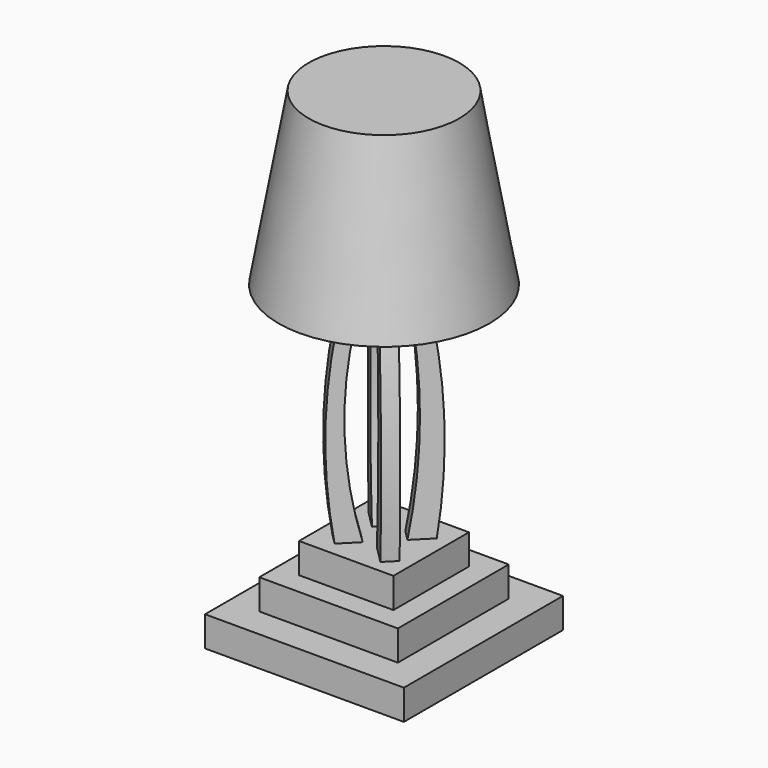
from build123d import *

# Parameters (mm, degrees)
F0_W      = 198
F0_H      = 198
F1_DEPTH  = 30
F2_W      = 138
F2_H      = 138
F3_DEPTH  = 30
F4_W      = 94
F4_H      = 94
F5_DEPTH  = 30
F6_R      = 4
F7_DEPTH  = 215
F9_DEPTH  = 215
F11_DEPTH = 25
F13_DEPTH = 25
F15_DEPTH = 25
F17_DEPTH = 25
F18_R     = 33.2568147927
F19_DEPTH = 6
F20_R     = 105
F20_R_2   = 33.2568147927
F21_DEPTH = 170
F21_TAPER = 10


with BuildPart() as f1:
    # F0 (on Top) → F1 (new body)
    with BuildSketch(Plane.XY):
        with Locations((99, 99)):
            Rectangle(F0_W, F0_H)
    extrude(amount=F1_DEPTH)

    # F2 (on face) → F3 (join)
    with BuildSketch(Plane.XY.offset(30)):
        with Locations((99, 99)):
            Rectangle(F2_W, F2_H)
    extrude(amount=F3_DEPTH)

    # F4 (on face) → F5 (join)
    with BuildSketch(Plane.XY.offset(60)):
        with Locations((99, 99)):
            Rectangle(F4_W, F4_H)
    extrude(amount=F5_DEPTH)

    # F6 (on face) → F7 (join)
    with BuildSketch(Plane.XY.offset(90)):
        with Locations((99, 99)):
            Circle(F6_R)
    extrude(amount=F7_DEPTH)

    # F8 (on face) → F9 (join)
    with BuildSketch(Plane.XY.offset(90)):
        Polygon((86.6256313292, 111.3743686708), (65.4124278936, 132.5875721064), (60.1091270347, 127.2842712475), (81.3223304703, 106.0710678119), align=None)
        Polygon((70.7157287525, 137.8908729653), (65.4124278936, 132.5875721064), (86.6256313292, 111.3743686708), (91.9289321881, 116.6776695297), align=None)
        Polygon((127.2842712475, 137.8908729653), (106.0710678119, 116.6776695297), (111.3743686708, 111.3743686708), (132.5875721064, 132.5875721064), align=None)
        Polygon((132.5875721064, 132.5875721064), (111.3743686708, 111.3743686708), (116.6776695297, 106.0710678119), (137.8908729653, 127.2842712475), align=None)
        Polygon((137.8908729653, 70.7157287525), (116.6776695297, 91.9289321881), (111.3743686708, 86.6256313292), (132.5875721064, 65.4124278936), align=None)
        Polygon((111.3743686708, 86.6256313292), (106.0710678119, 81.3223304703), (127.2842712475, 60.1091270347), (132.5875721064, 65.4124278936), align=None)
        Polygon((91.9289321881, 81.3223304703), (86.6256313292, 86.6256313292), (65.4124278936, 65.4124278936), (70.7157287525, 60.1091270347), align=None)
        Polygon((86.6256313292, 86.6256313292), (81.3223304703, 91.9289321881), (60.1091270347, 70.7157287525), (65.4124278936, 65.4124278936), align=None)
    extrude(amount=F9_DEPTH)

    # F10 (on face) → F11 (cut)
    with BuildSketch(Plane(origin=(5.3033008589, -5.3033008589, 0), x_dir=(0.7071067812, 0.7071067812, 0), z_dir=(0.7071067812, -0.7071067812, 0))):
        with BuildLine():
            Line((122.5071426749, 90), (122.5071426749, 305))
            ThreePointArc((122.5071426749, 305), (108.1413524776, 197.5), (122.5071426749, 90))
        make_face()
        with BuildLine():
            ThreePointArc((100.5295589566, 90), (93.5255146575, 197.840533222), (107.5071426749, 305))
            Line((107.5071426749, 305), (92.5071426749, 305))
            Line((92.5071426749, 305), (92.5071426749, 90))
            Line((92.5071426749, 90), (100.5295589566, 90))
        make_face()
    extrude(amount=-F11_DEPTH, mode=Mode.SUBTRACT)

    # F12 (on face) → F13 (cut)
    with BuildSketch(Plane(origin=(104.3033008589, 104.3033008589, 0), x_dir=(-0.7071067812, 0.7071067812, 0), z_dir=(0.7071067812, 0.7071067812, 0))):
        with BuildLine():
            Line((17.5, 305), (17.5, 90))
            ThreePointArc((17.5, 90), (28.9852035419, 197.5), (17.5, 305))
        make_face()
        with BuildLine():
            ThreePointArc((32.5, 305), (46.5125090054, 197.8568495491), (39.962310344, 90))
            Line((39.962310344, 90), (47.5, 90))
            Line((47.5, 90), (47.5, 305))
            Line((47.5, 305), (32.5, 305))
        make_face()
    extrude(amount=-F13_DEPTH, mode=Mode.SUBTRACT)

    # F14 (on face) → F15 (cut)
    with BuildSketch(Plane(origin=(5.3033008589, -5.3033008589, 0), x_dir=(0.7071067812, 0.7071067812, 0), z_dir=(0.7071067812, -0.7071067812, 0))):
        with BuildLine():
            ThreePointArc((172.5071426749, 305), (186.2558070406, 197.8608173435), (180.4356426001, 90))
            Line((180.4356426001, 90), (187.5071426749, 90))
            Line((187.5071426749, 90), (187.5071426749, 305))
            Line((187.5071426749, 305), (172.5071426749, 305))
        make_face()
        with BuildLine():
            Line((157.5071426749, 305), (157.5071426749, 90))
            ThreePointArc((157.5071426749, 90), (167.3211795092, 197.5), (157.5071426749, 305))
        make_face()
    extrude(amount=-F15_DEPTH, mode=Mode.SUBTRACT)

    # F16 (on face) → F17 (cut)
    with BuildSketch(Plane(origin=(104.3033008589, 104.3033008589, 0), x_dir=(-0.7071067812, 0.7071067812, 0), z_dir=(0.7071067812, 0.7071067812, 0))):
        with BuildLine():
            ThreePointArc((-42.129099369, 90), (-46.2365441061, 197.8995849807), (-32.5, 305))
            Line((-32.5, 305), (-47.5, 305))
            Line((-47.5, 305), (-47.5, 90))
            Line((-47.5, 90), (-42.129099369, 90))
        make_face()
        with BuildLine():
            Line((-17.5, 90), (-17.5, 305))
            ThreePointArc((-17.5, 305), (-27.2443014962, 197.5), (-17.5, 90))
        make_face()
    extrude(amount=-F17_DEPTH, mode=Mode.SUBTRACT)

    # F18 (on face) → F19 (join)
    with BuildSketch(Plane.XY.offset(305)):
        with Locations((99, 99)):
            Circle(F18_R)
    extrude(amount=F19_DEPTH)

    # F20 (on face) → F21 (join)
    with BuildSketch(Plane.XY.offset(311)):
        with Locations((99, 99)):
            Circle(F20_R)
        with Locations((99, 99)):
            Circle(F20_R_2, mode=Mode.SUBTRACT)
        with Locations((99, 99)):
            Circle(F20_R_2)
    extrude(amount=F21_DEPTH, taper=F21_TAPER)


solid = f1.part
